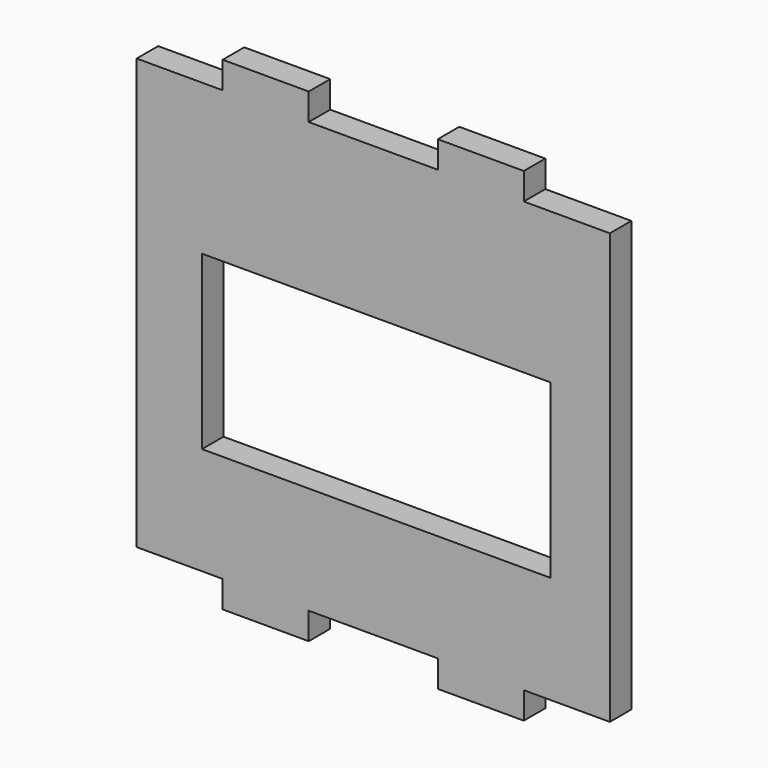
from build123d import *

# Parameters (mm, degrees)
F0_W     = 41.142106
F0_H     = 20.32
F1_DEPTH = 3.175


with BuildPart() as f1:
    # F0 (on Front) → F1 (new body)
    with BuildSketch(Plane.XZ):
        Polygon((-50.709821, 13.180559), (-60.869821, 13.180559), (-60.869821, -37.619441), (-50.709821, -37.619441), (-50.709821, -40.794441), (-40.549821, -40.794441), (-40.549821, -37.619441), (-25.309821, -37.619441), (-25.309821, -40.794441), (-15.149821, -40.794441), (-15.149821, -37.619441), (-4.989821, -37.619441), (-4.989821, 13.180559), (-15.149821, 13.180559), (-15.149821, 16.355559), (-25.309821, 16.355559), (-25.309821, 13.180559), (-40.549821, 13.180559), (-40.549821, 16.355559), (-50.709821, 16.355559), align=None)
        with Locations((-32.580219, -14.759441)):
            Rectangle(F0_W, F0_H, mode=Mode.SUBTRACT)
    extrude(amount=F1_DEPTH)


solid = f1.part
